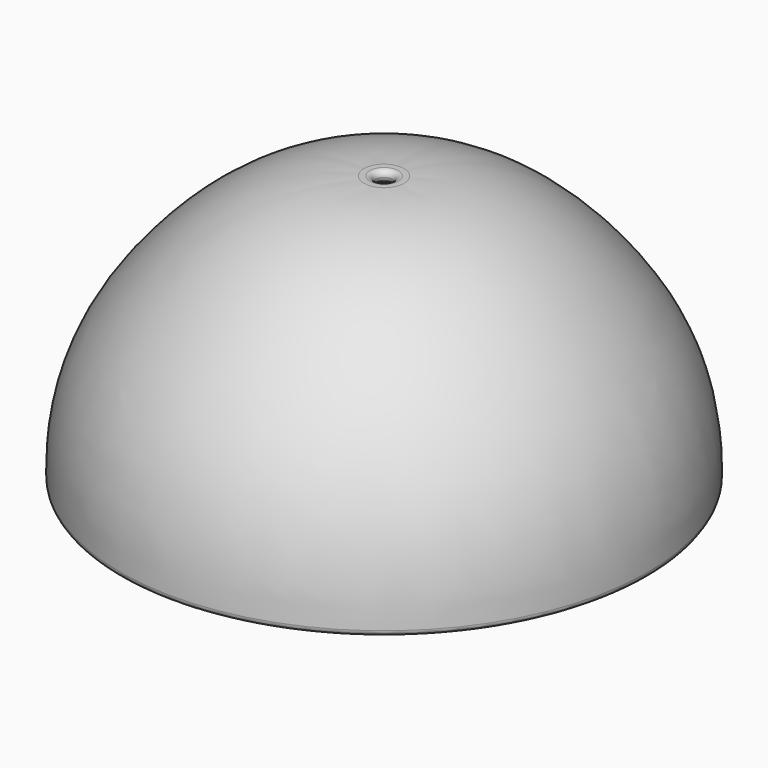
from build123d import *

# Parameters (mm, degrees)
F3_R = 1
F4_R = 1


with BuildPart() as f2:
    # F1 (on Front) → F2 (revolve)
    with BuildSketch(Plane.XZ):
        with BuildLine():
            add(Edge.make_bspline(
                [(-3.5, 46.9417643249), (-17.3009381267, 46.8240493622), (-36.4458711643, 33.258135069), (-46.548532737, 13.8917068096), (-46.1, 0)],
                knots=[0, 0, 0, 0, 0.5012996436, 1, 1, 1, 1], degree=3))
            Line((-46.1, 0), (-44, 0))
            Line((-44, 0), (-44, 4))
            Line((-44, 4), (-41.9, 4))
            add(Edge.make_bspline(
                [(-41.9, 4), (-40.9081628541, 14.8874223873), (-32.4821338058, 33.0289602369), (-13.2582665115, 45.0787089657), (-1.5, 44.9417643249)],
                knots=[0, 0, 0, 0, 0.4925617698, 1, 1, 1, 1], degree=3))
            Line((-1.5, 44.9417643249), (-1.5, 46.9417643249))
            Line((-1.5, 46.9417643249), (-3.5, 46.9417643249))
        make_face()
    revolve(axis=Axis((0, 0, 22.5), (0, 0, 1)))

    # F3
    f3_edges = [f2.edges().sort_by_distance(p)[0] for p in [
        (1.5, 0, 46.941764),
        (1.5, 0, 44.941764),
        (41.9, 0, 4),
    ]]
    fillet(f3_edges, radius=F3_R)

    # F4
    f4_edges = [f2.edges().sort_by_distance(p)[0] for p in [
        (46.1, 0, 0),
    ]]
    fillet(f4_edges, radius=F4_R)


solid = f2.part
